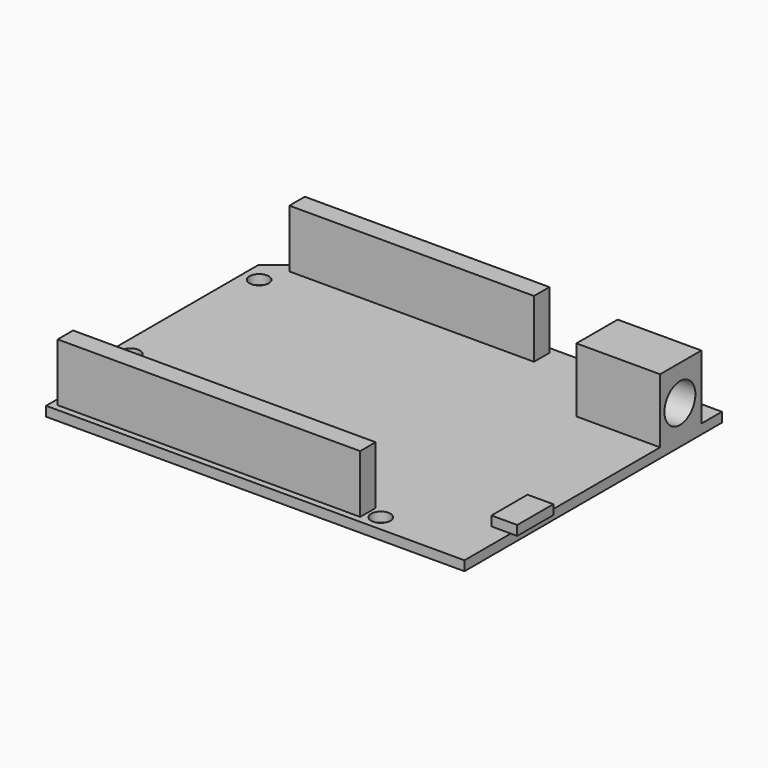
from build123d import *

# Parameters (mm, degrees)
F0_R     = 1.5
F1_DEPTH = 1.5
F2_W     = 38
F2_H     = 3
F2_W_2   = 47
F3_DEPTH = 9
F4_W     = 4
F4_H     = 7
F5_DEPTH = 1.5
F6_W     = 8
F6_H     = 1.5
F6_H_2   = 10
F6_R     = 3
F7_DEPTH = 13


with BuildPart() as f1:
    # F0 (on Top) → F1 (new body)
    with BuildSketch(Plane.XY):
        Polygon((15.091755, -23.95556), (15.091755, 26.04444), (-49.908245, 26.04444), (-49.908245, 23.392303), (-52.908245, 21.04444), (-52.908245, -8.95556), (-49.908245, -12.139853), (-49.908245, -23.95556), align=None)
        with Locations((-50.408245, -6.95556)):
            Circle(F0_R, mode=Mode.SUBTRACT)
        with Locations((0.091755, -21.45556)):
            Circle(F0_R, mode=Mode.SUBTRACT)
        with Locations((-50.408245, 18.04444)):
            Circle(F0_R, mode=Mode.SUBTRACT)
        with Locations((1.091755, 23.54444)):
            Circle(F0_R, mode=Mode.SUBTRACT)
    extrude(amount=F1_DEPTH)

    # F2 (on face) → F3 (join)
    with BuildSketch(Plane.XY.offset(1.5)):
        with Locations((-29.908245, 23.54444)):
            Rectangle(F2_W, F2_H)
        with Locations((-25.408245, -21.45556)):
            Rectangle(F2_W_2, F2_H)
    extrude(amount=F3_DEPTH)

    # F4 (on face) → F5 (join)
    with BuildSketch(Plane.XY.offset(1.5)):
        with Locations((14.091755, -11.45556)):
            Rectangle(F4_W, F4_H)
    extrude(amount=F5_DEPTH)

    # F6 (on face) → F7 (join)
    with BuildSketch(Plane.YZ.offset(15.091755)):
        with Locations((18.04444, 0.75)):
            Rectangle(F6_W, F6_H)
        with Locations((18.04444, 6.5)):
            Rectangle(F6_W, F6_H_2)
        with Locations((17.887879, 6)):
            Circle(F6_R, mode=Mode.SUBTRACT)
    extrude(amount=-F7_DEPTH)


solid = f1.part
